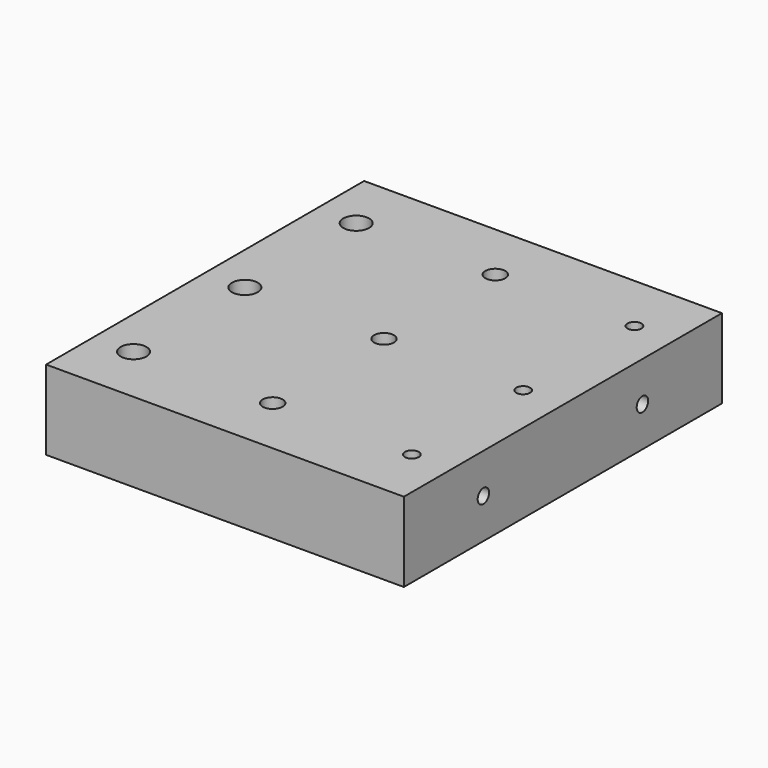
from build123d import *

# Parameters (mm, degrees)
F0_W     = 90
F0_H     = 100
F1_DEPTH = 20
F2_D     = 6.5
F3_D     = 5
F4_D     = 3.5
F6_D     = 3.6
F6_DEPTH = 16
F6_TIP   = 1.0815491142
F8_D     = 3.6
F8_DEPTH = 16
F8_TIP   = 1.0815491142


with BuildPart() as f1:
    # F0 (on Top) → F1 (new body)
    with BuildSketch(Plane.XY):
        Rectangle(F0_W, F0_H)
    extrude(amount=-F1_DEPTH)

    # F2 (through all)
    with Locations(Plane.XY):
        with Locations((-35, 35), (-35, 0), (-35, -35)):
            Hole(F2_D / 2)

    # F3 (through all)
    with Locations(Plane.XY):
        with Locations((0, 35), (0, 0), (0, -35)):
            Hole(F3_D / 2)

    # F4 (through all)
    with Locations(Plane.XY):
        with Locations((35, 35), (35, 0), (35, -35)):
            Hole(F4_D / 2)

    # F6
    with Locations(Plane(origin=(-45, 0, 0), x_dir=(0, -1, 0), z_dir=(-1, 0, 0))):
        with Locations((-25, -10), (25, -10)):
            Hole(F6_D / 2, depth=F6_DEPTH)
            with Locations((0, 0, -(F6_DEPTH + F6_TIP / 2))):  # 118° drill point
                Cone(0, F6_D / 2, F6_TIP, mode=Mode.SUBTRACT)

    # F8
    with Locations(Plane.YZ.offset(45)):
        with Locations((-25, -10), (25, -10)):
            Hole(F8_D / 2, depth=F8_DEPTH)
            with Locations((0, 0, -(F8_DEPTH + F8_TIP / 2))):  # 118° drill point
                Cone(0, F8_D / 2, F8_TIP, mode=Mode.SUBTRACT)


solid = f1.part
